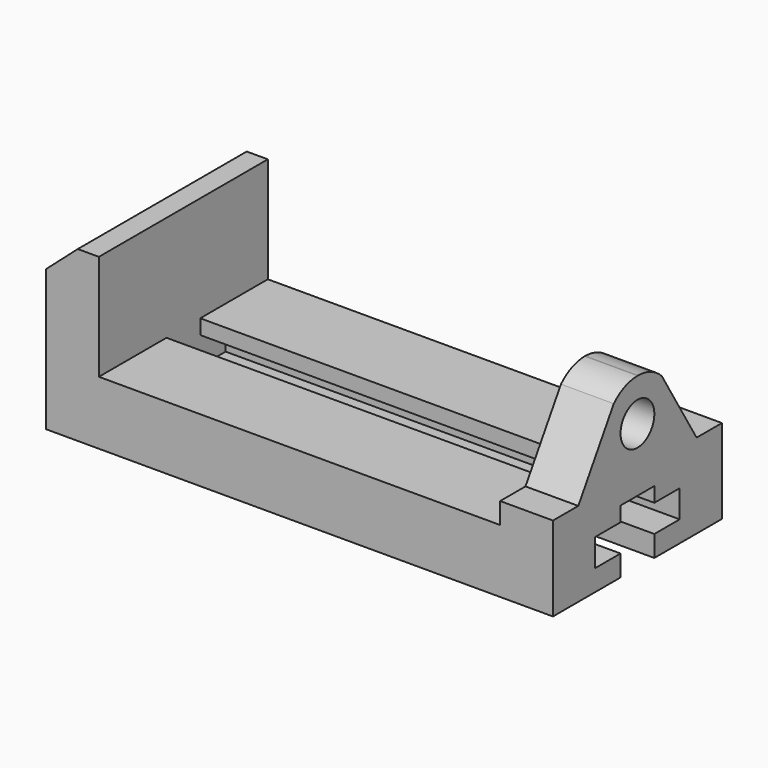
from build123d import *

# Parameters (mm, degrees)
F1_DEPTH = 127
F2_R     = 12.7
F3_DEPTH = 50.8
F4_DEPTH = 222.25


with BuildPart() as f1:
    # F0 (on Front) → F1 (new body)
    with BuildSketch(Plane.XZ):
        Polygon((0, 84.799479), (0, 0), (304.8, 0), (304.8, 101.6), (273.05, 101.6), (273.05, 38.1), (31.75, 38.1), (31.75, 101.6), (19.05, 101.6), align=None)
    extrude(amount=F1_DEPTH)

    # F2 (on face) → F3 (cut)
    with BuildSketch(Plane.YZ.offset(304.8)):
        with BuildLine():
            Line((-127, 101.6), (-127, 50.8))
            Line((-127, 50.8), (-107.95, 50.8))
            Line((-107.95, 50.8), (-81.305853, 94.082571))
            ThreePointArc((-81.305853, 94.082571), (-73.145897, 99.601092), (-63.5, 101.6))
            Line((-63.5, 101.6), (-127, 101.6))
        make_face()
        with BuildLine():
            Line((-19.05, 50.8), (0, 50.8))
            Line((0, 50.8), (0, 101.6))
            Line((0, 101.6), (-63.033349, 101.6))
            ThreePointArc((-63.033349, 101.6), (-53.387452, 99.601092), (-45.227496, 94.082571))
            Line((-45.227496, 94.082571), (-19.05, 50.8))
        make_face()
        Polygon((-76.2, 0), (-50.8, 0), (-50.8, 12.7), (-31.75, 12.7), (-31.75, 29.21), (-50.8, 29.21), (-50.8, 38.1), (-76.2, 38.1), (-76.2, 29.21), (-95.25, 29.21), (-95.25, 12.7), (-76.2, 12.7), align=None)
        with Locations((-63.5, 76.2)):
            Circle(F2_R)
    extrude(amount=-F3_DEPTH, mode=Mode.SUBTRACT)

    # F3_face (on face) → F4 (cut)
    with BuildSketch(Plane(origin=(254, -63.5, 19.800455), x_dir=(0, 1, 0), z_dir=(1, 0, 0))):
        Polygon((-12.7, -19.800455), (12.7, -19.800455), (12.7, -7.100455), (31.75, -7.100455), (31.75, 9.409545), (12.7, 9.409545), (12.7, 18.299545), (-12.7, 18.299545), (-12.7, 9.409545), (-31.75, 9.409545), (-31.75, -7.100455), (-12.7, -7.100455), align=None)
    extrude(amount=-F4_DEPTH, mode=Mode.SUBTRACT)


solid = f1.part
